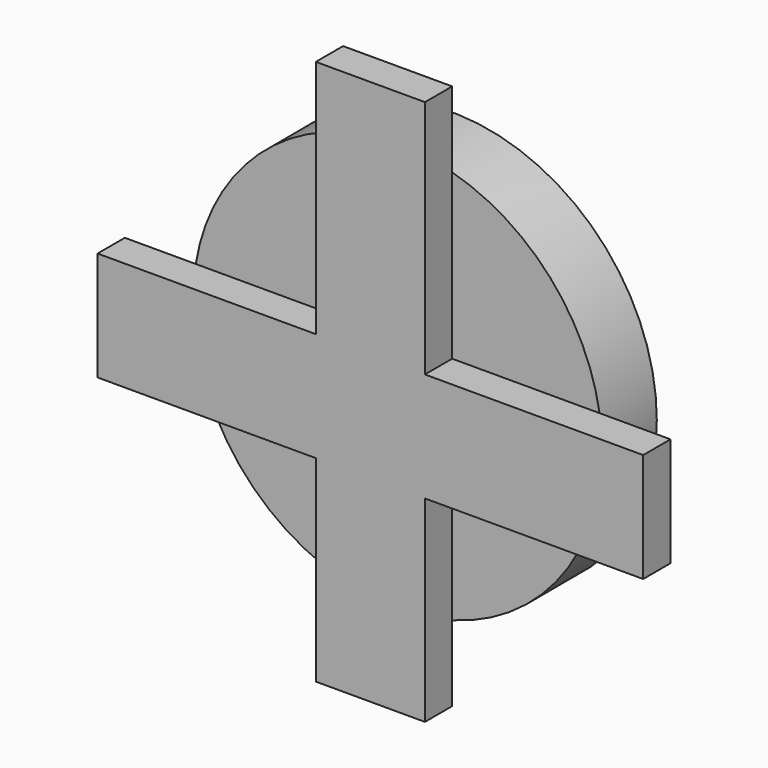
from build123d import *

# Parameters (mm, degrees)
F0_R     = 76.2
F1_DEPTH = 25.4
F2_W     = 40.64
F2_H     = 89.2815995878
F2_H_2   = 40.64
F2_W_2   = 81.28
F2_H_3   = 73.2784004122
F3_DEPTH = 12.7


with BuildPart() as f1:
    # F0 (on Front) → F1 (new body)
    with BuildSketch(Plane.XZ):
        Circle(F0_R)
    extrude(amount=F1_DEPTH)

    # F2 (on face) → F3 (join)
    with BuildSketch(Plane.XZ.offset(25.4)):
        with Locations((0, 56.9592002061)):
            Rectangle(F2_W, F2_H)
        with Locations((0, -8.0015995878)):
            Rectangle(F2_W, F2_H_2)
        with Locations((-60.96, -8.0015995878)):
            Rectangle(F2_W_2, F2_H_2)
        with Locations((60.96, -8.0015995878)):
            Rectangle(F2_W_2, F2_H_2)
        with Locations((0, -64.9607997939)):
            Rectangle(F2_W, F2_H_3)
    extrude(amount=F3_DEPTH)


solid = f1.part
